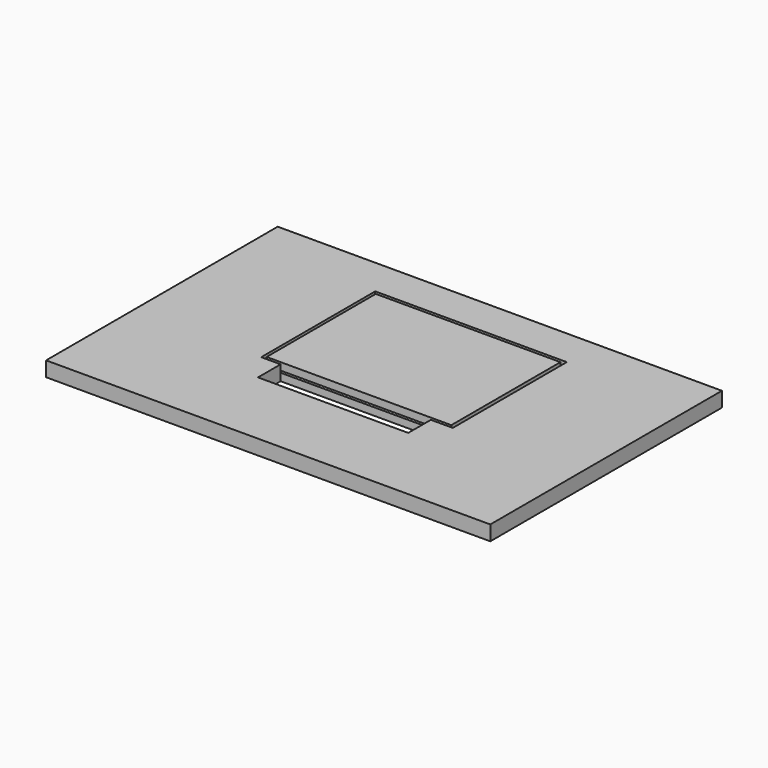
from build123d import *

# Parameters (mm, degrees)
F0_W     = 151.6449451447
F0_H     = 98.8437831402
F1_DEPTH = 5.08
F2_W     = 51.2981526554
F2_H     = 9.6649971419
F3_DEPTH = 25.146
F4_W     = 63.0413852632
F4_H     = 46.5789679438
F5_DEPTH = 2.54


with BuildPart() as f1:
    # F0 (on Top) → F1 (new body)
    with BuildSketch(Plane.XY):
        with Locations((-0.081807375, 6.1048939824)):
            Rectangle(F0_W, F0_H)
    extrude(amount=F1_DEPTH)

    # F2 (on Top) → F3 (cut)
    with BuildSketch(Plane.XY):
        with Locations((0, -10.8838873326)):
            Rectangle(F2_W, F2_H)
    extrude(amount=F3_DEPTH, mode=Mode.SUBTRACT)

    # F4 (on face) → F5 (cut)
    with BuildSketch(Plane.XY.offset(5.08)):
        Polygon((-32.2755798697, 42.5956249237), (-32.2755798697, -6.0513887617), (-25.6490763277, -6.0513887617), (25.6490763277, -6.0513887617), (33.1190824509, -6.0513887617), (33.1190824509, 42.5956249237), align=None)
        with Locations((0.2893041819, 18.2428015396)):
            Rectangle(F4_W, F4_H, mode=Mode.SUBTRACT)
    extrude(amount=-F5_DEPTH, mode=Mode.SUBTRACT)


solid = f1.part
